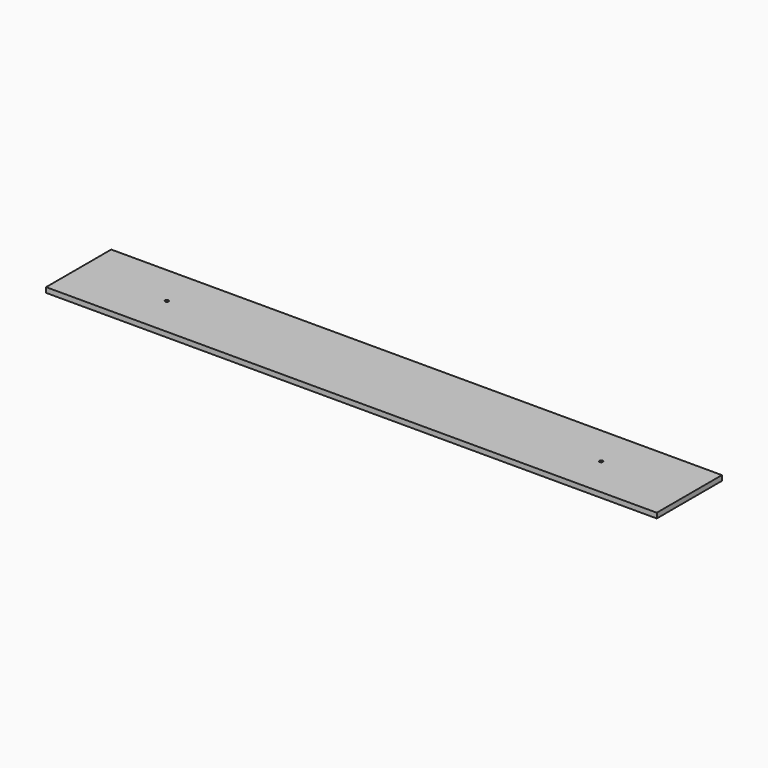
from build123d import *

# Parameters (mm, degrees)
F0_W     = 2286
F0_H     = 304.8
F1_DEPTH = 19.05
F3_D     = 12.7
F3_DEPTH = 6.35
F3_TIP   = 3.8154649308


with BuildPart() as f1:
    # F0 (on Top) → F1 (new body)
    with BuildSketch(Plane.XY):
        with Locations((-8.5318703204, 18.1263682907)):
            Rectangle(F0_W, F0_H)
    extrude(amount=F1_DEPTH)

    # F3
    with Locations(Plane.XY.offset(19.05)):
        with Locations((-821.3318703204, 18.1263682907), (804.2681296796, 18.1263682907)):
            Hole(F3_D / 2, depth=F3_DEPTH)
            with Locations((0, 0, -(F3_DEPTH + F3_TIP / 2))):  # 118° drill point
                Cone(0, F3_D / 2, F3_TIP, mode=Mode.SUBTRACT)


solid = f1.part
